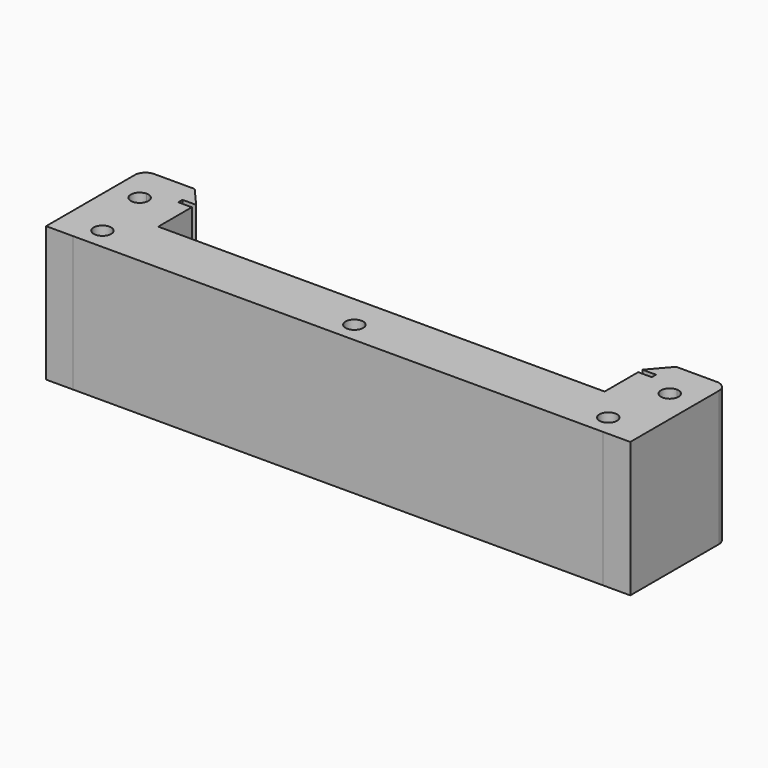
from build123d import *

# Parameters (mm, degrees)
F0_R     = 1.651
F0_W     = 83.9253333333
F0_H     = 2.54
F0_W_2   = 0.7576921484
F0_H_2   = 0.9999891111
F1_DEPTH = 25.4


with BuildPart() as f1:
    # F0 (on Top) → F1 (new body)
    with BuildSketch(Plane.XY):
        Polygon((-45.2646666667, -11.43), (-49.8366666667, -11.43), (-49.8366666667, -19.05), (49.8366666667, -19.05), (49.8366666667, -11.43), (45.2646666667, -11.43), (41.9626666667, -11.43), (-41.9626666667, -11.43), align=None)
        with Locations((-47.5506666667, -15.0114614516)):
            Circle(F0_R, mode=Mode.SUBTRACT)
        with Locations((0.0100299507, -15.2482278645)):
            Circle(F0_R, mode=Mode.SUBTRACT)
        with Locations((47.5506666667, -15.0114614516)):
            Circle(F0_R, mode=Mode.SUBTRACT)
        with BuildLine():
            Line((-49.8366666667, -19.05), (-49.8366666667, -11.43))
            Line((-49.8366666667, -11.43), (-49.8366666667, -5.0728137152))
            ThreePointArc((-49.8366666667, -5.0728137152), (-51.4876666667, -3.4218137152), (-49.8366666667, -1.7708137152))
            Line((-49.8366666667, -1.7708137152), (-49.8366666667, 1.778))
            Line((-49.8366666667, 1.778), (-54.9166666667, 1.778))
            Line((-54.9166666667, 1.778), (-54.9166666667, -19.05301027))
            Line((-54.9166666667, -19.05301027), (-49.8366666667, -19.05301027))
            Line((-49.8366666667, -19.05301027), (-49.8366666667, -19.05))
        make_face()
        Polygon((-45.2646666667, -0.9999891111), (-45.2646666667, -11.43), (-41.9626666667, -11.43), (-41.9626666667, -8.89), (-41.9626666667, -0.9999891111), (-44.5069745183, -0.9999891111), align=None)
        with Locations((0, -10.16)):
            Rectangle(F0_W, F0_H)
        with Locations((-44.8858205925, -0.4999945555)):
            Rectangle(F0_W_2, F0_H_2)
        with BuildLine():
            Line((49.8366666667, -11.43), (49.8366666667, -19.05))
            Line((49.8366666667, -19.05), (49.8366666667, -19.05301027))
            Line((49.8366666667, -19.05301027), (54.9166666667, -19.05301027))
            Line((54.9166666667, -19.05301027), (54.9166666667, 1.778))
            Line((54.9166666667, 1.778), (49.8366666667, 1.778))
            Line((49.8366666667, 1.778), (49.8366666667, -1.7708137152))
            ThreePointArc((49.8366666667, -1.7708137152), (51.0040999624, -2.2543804195), (51.4876666667, -3.4218137152))
            ThreePointArc((51.4876666667, -3.4218137152), (51.0040999624, -4.589247011), (49.8366666667, -5.0728137152))
            Line((49.8366666667, -5.0728137152), (49.8366666667, -11.43))
        make_face()
        Polygon((41.9626666667, -8.89), (41.9626666667, -11.43), (45.2646666667, -11.43), (45.2646666667, -0.9999891111), (44.5069745183, -0.9999891111), (41.9626666667, -0.9999891111), align=None)
        Polygon((-45.2646666667, 1.778), (-45.2646666667, 0), (-44.5069745183, 0), (-41.94509238, 0), (-45.2646666667, 3.81), align=None)
        with BuildLine():
            Line((-54.9166666667, 1.778), (-49.8366666667, 1.778))
            Line((-49.8366666667, 1.778), (-45.2646666667, 1.778))
            Line((-45.2646666667, 1.778), (-45.2646666667, 3.81))
            Line((-45.2646666667, 3.81), (-52.8846666667, 3.81))
            ThreePointArc((-52.8846666667, 3.81), (-54.321507646, 3.2148409794), (-54.9166666667, 1.778))
        make_face()
        with Locations((44.8858205925, -0.4999945555)):
            Rectangle(F0_W_2, F0_H_2)
        with BuildLine():
            Line((49.8366666667, 1.778), (54.9166666667, 1.778))
            ThreePointArc((54.9166666667, 1.778), (54.321507646, 3.2148409794), (52.8846666667, 3.81))
            Line((52.8846666667, 3.81), (47.8046666667, 3.81))
            Line((47.8046666667, 3.81), (45.2646666667, 3.81))
            Line((45.2646666667, 3.81), (45.2646666667, 1.778))
            Line((45.2646666667, 1.778), (49.8366666667, 1.778))
        make_face()
        Polygon((44.5069745183, 0), (45.2646666667, 0), (45.2646666667, 1.778), (45.2646666667, 3.81), (41.94509238, 0), align=None)
        with BuildLine():
            Line((-49.8366666667, -5.0728137152), (-49.8366666667, -11.43))
            Line((-49.8366666667, -11.43), (-45.2646666667, -11.43))
            Line((-45.2646666667, -11.43), (-45.2646666667, -0.9999891111))
            Line((-45.2646666667, -0.9999891111), (-45.2646666667, 0))
            Line((-45.2646666667, 0), (-45.2646666667, 1.778))
            Line((-45.2646666667, 1.778), (-49.8366666667, 1.778))
            Line((-49.8366666667, 1.778), (-49.8366666667, -1.7708137152))
            ThreePointArc((-49.8366666667, -1.7708137152), (-48.6692333709, -2.2543804195), (-48.1856666667, -3.4218137152))
            ThreePointArc((-48.1856666667, -3.4218137152), (-48.6692333709, -4.589247011), (-49.8366666667, -5.0728137152))
        make_face()
        with BuildLine():
            Line((45.2646666667, -11.43), (49.8366666667, -11.43))
            Line((49.8366666667, -11.43), (49.8366666667, -5.0728137152))
            ThreePointArc((49.8366666667, -5.0728137152), (48.1856666667, -3.4218137152), (49.8366666667, -1.7708137152))
            Line((49.8366666667, -1.7708137152), (49.8366666667, 1.778))
            Line((49.8366666667, 1.778), (45.2646666667, 1.778))
            Line((45.2646666667, 1.778), (45.2646666667, 0))
            Line((45.2646666667, 0), (45.2646666667, -0.9999891111))
            Line((45.2646666667, -0.9999891111), (45.2646666667, -11.43))
        make_face()
    extrude(amount=F1_DEPTH)


solid = f1.part
